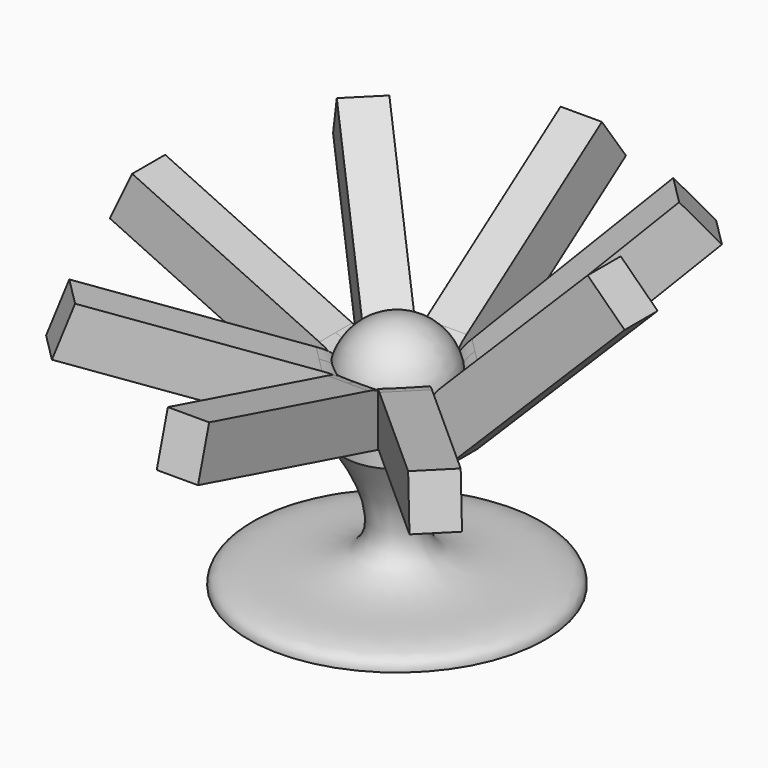
from build123d import *

# Parameters (mm, degrees)
F6_DEPTH  = 2.54
F7_COUNT  = 8
F8_ANGLE  = 45
F9_ANGLE  = 40
F10_ANGLE = 35
F11_ANGLE = 30
F12_ANGLE = 25
F13_ANGLE = 20
F14_ANGLE = 15
F15_ANGLE = 10


with BuildPart() as f4:
    # F3 (on Front) → F4 (revolve)
    with BuildSketch(Plane.XZ):
        with BuildLine():
            Line((6.5723787993, 15.9511268139), (6.5723787993, 22.4529055339))
            ThreePointArc((6.5723787993, 22.4529055339), (4.6449527825, 27.0862721576), (0, 28.9856065065))
            Line((0, 28.9856065065), (0, 0))
            Line((0, 0), (18.2470623404, 0))
            add(Edge.make_bspline(
                [(6.5723787993, 15.9511268139), (-5.7939966209, -3.7336223759), (18.3852072805, 5.2210548893), (18.2470623404, 0)],
                knots=[0, 0, 0, 0, 19.7670605406, 19.7670605406, 19.7670605406, 19.7670605406], degree=3))
        make_face()
    revolve(axis=Axis((0, 0, 14.4928032532), (0, 0, 1)))


with BuildPart() as f6:
    # F5 (on Front) → F6 (new body, symmetric)
    with BuildSketch(Plane.XZ):
        with BuildLine():
            Line((33.0074023913, 18.5467092484), (32.9331134722, 24.8967092484))
            Line((32.9331134722, 24.8967092484), (7.5331134722, 24.8967092484))
            add(Edge.make_bspline(
                [(7.5331134722, 24.8967092484), (4.418859724, 25.0005163252), (2.5243549608, 23.0569226944), (1.6127132112, 18.5467092484)],
                knots=[0, 0, 0, 0, 8.6817993095, 8.6817993095, 8.6817993095, 8.6817993095], degree=3))
            Line((1.6127132112, 18.5467092484), (33.0074023913, 18.5467092484))
        make_face()
    extrude(amount=F6_DEPTH, both=True)


with BuildPart() as f7_1:
    # F7: instance of F6
    add(f6.part.rotate(Axis((0, 0, 14.4928032532), (0, 0, 1)), 1 * 360 / F7_COUNT))


with BuildPart() as f7_2:
    # F7: instance of F6
    add(f6.part.rotate(Axis((0, 0, 14.4928032532), (0, 0, 1)), 2 * 360 / F7_COUNT))


with BuildPart() as f7_3:
    # F7: instance of F6
    add(f6.part.rotate(Axis((0, 0, 14.4928032532), (0, 0, 1)), 3 * 360 / F7_COUNT))


with BuildPart() as f7_4:
    # F7: instance of F6
    add(f6.part.rotate(Axis((0, 0, 14.4928032532), (0, 0, 1)), 4 * 360 / F7_COUNT))


with BuildPart() as f7_5:
    # F7: instance of F6
    add(f6.part.rotate(Axis((0, 0, 14.4928032532), (0, 0, 1)), 5 * 360 / F7_COUNT))


with BuildPart() as f7_6:
    # F7: instance of F6
    add(f6.part.rotate(Axis((0, 0, 14.4928032532), (0, 0, 1)), 6 * 360 / F7_COUNT))


with BuildPart() as f7_7:
    # F7: instance of F6
    add(f6.part.rotate(Axis((0, 0, 14.4928032532), (0, 0, 1)), 7 * 360 / F7_COUNT))


with BuildPart() as f6_1:
    # F8: moved
    add(f6.part.rotate(Axis((7.5331134722, 0, 24.8967092484), (0, -1, 0)), F8_ANGLE))


with BuildPart() as f7_1_1:
    # F9: moved
    add(f7_1.part.rotate(Axis((6.2247412317, 4.4286900075, 24.8967092484), (0.7071067812, -0.7071067812, 0)), F9_ANGLE))


with BuildPart() as f7_2_1:
    # F10: moved
    add(f7_2.part.rotate(Axis((1.27, 7.5331134722, 24.8967092484), (1, 0, 0)), F10_ANGLE))


with BuildPart() as f7_3_1:
    # F11: moved
    add(f7_3.part.rotate(Axis((-4.4286900075, 6.2247412317, 24.8967092484), (0.7071067812, 0.7071067812, 0)), F11_ANGLE))


with BuildPart() as f7_4_1:
    # F12: moved
    add(f7_4.part.rotate(Axis((-7.5331134722, 1.27, 24.8967092484), (0, 1, 0)), F12_ANGLE))


with BuildPart() as f7_5_1:
    # F13: moved
    add(f7_5.part.rotate(Axis((-6.2247412317, -4.4286900075, 24.8967092484), (-0.7071067812, 0.7071067812, 0)), F13_ANGLE))


with BuildPart() as f7_6_1:
    # F14: moved
    add(f7_6.part.rotate(Axis((-1.27, -7.5331134722, 24.8967092484), (-1, 0, 0)), F14_ANGLE))


with BuildPart() as f7_7_1:
    # F15: moved
    add(f7_7.part.rotate(Axis((4.4286900075, -6.2247412317, 24.8967092484), (-0.7071067812, -0.7071067812, 0)), F15_ANGLE))


solid = Compound([f4.part, f6_1.part, f7_1_1.part, f7_2_1.part, f7_3_1.part, f7_4_1.part, f7_5_1.part, f7_6_1.part, f7_7_1.part])
